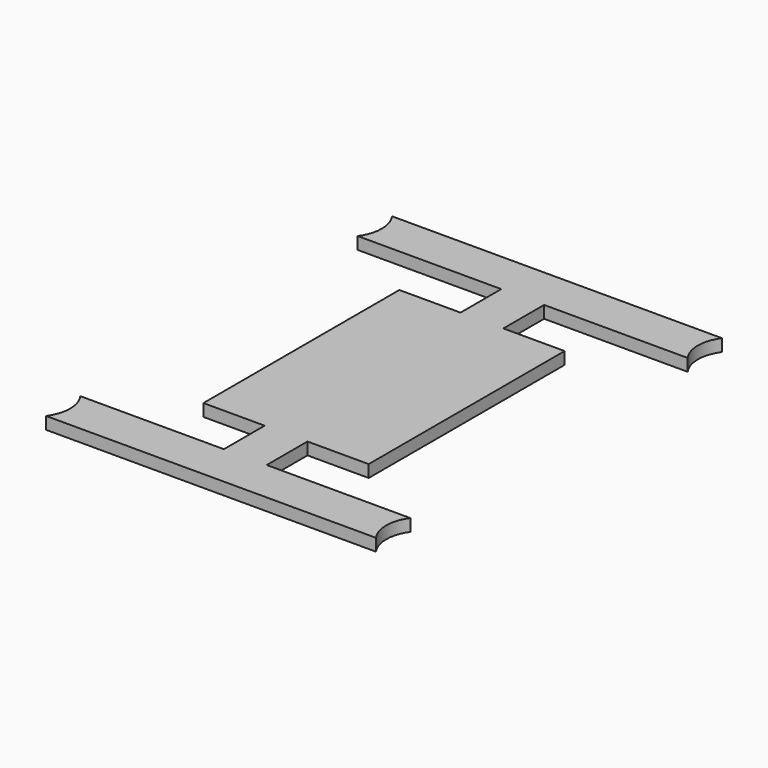
from build123d import *

# Parameters (mm, degrees)
F1_DEPTH = 2


with BuildPart() as f1:
    # F0 (on Top) → F1 (new body)
    with BuildSketch(Plane.XY):
        Polygon((13.5, 20), (3.5, 20), (-3.5, 20), (-13.5, 20), (-13.5, -20), (-3.5, -20), (3.5, -20), (13.5, -20), align=None)
        with BuildLine():
            Line((3.5, -28.319805), (3.5, -20))
            Line((3.5, -20), (-3.5, -20))
            Line((-3.5, -20), (-3.5, -28.319805))
            Line((-3.5, -28.319805), (-26.946408, -28.319805))
            ThreePointArc((-26.946408, -28.319805), (-26.108396, -29.98138), (-25.819805, -31.819805))
            ThreePointArc((-25.819805, -31.819805), (-26.108396, -33.658231), (-26.946408, -35.319805))
            Line((-26.946408, -35.319805), (26.946408, -35.319805))
            ThreePointArc((26.946408, -35.319805), (25.819805, -31.819805), (26.946408, -28.319805))
            Line((26.946408, -28.319805), (3.5, -28.319805))
        make_face()
        with BuildLine():
            ThreePointArc((26.946408, 28.319805), (25.819805, 31.819805), (26.946408, 35.319805))
            Line((26.946408, 35.319805), (-26.946408, 35.319805))
            ThreePointArc((-26.946408, 35.319805), (-26.108396, 33.658231), (-25.819805, 31.819805))
            ThreePointArc((-25.819805, 31.819805), (-26.108396, 29.98138), (-26.946408, 28.319805))
            Line((-26.946408, 28.319805), (-3.5, 28.319805))
            Line((-3.5, 28.319805), (-3.5, 20))
            Line((-3.5, 20), (3.5, 20))
            Line((3.5, 20), (3.5, 28.319805))
            Line((3.5, 28.319805), (26.946408, 28.319805))
        make_face()
    extrude(amount=F1_DEPTH)


solid = f1.part
